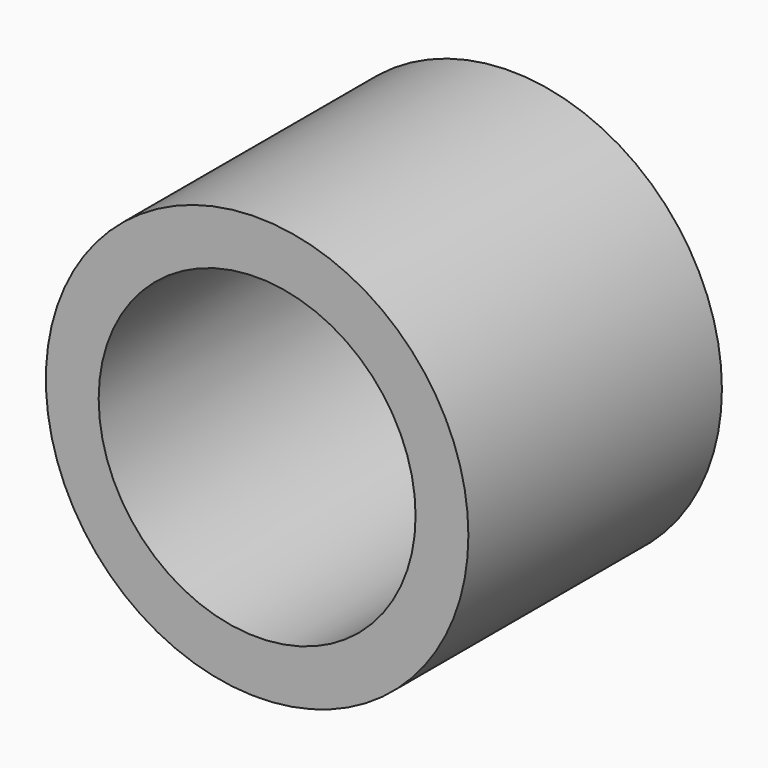
from build123d import *

# Parameters (mm, degrees)
F0_R     = 4
F1_DEPTH = 6
F2_D     = 6


with BuildPart() as f1:
    # F0 (on Front) → F1 (new body)
    with BuildSketch(Plane.XZ):
        Circle(F0_R)
    extrude(amount=-F1_DEPTH)

    # F2 (through all)
    with Locations(Plane.XZ):
        with Locations((0, 0)):
            Hole(F2_D / 2)


solid = f1.part
